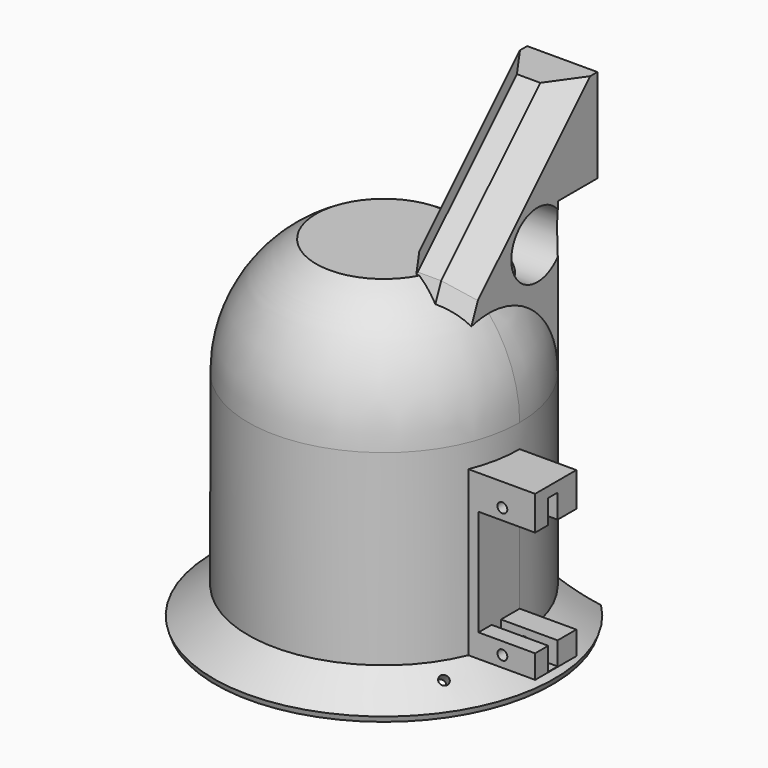
from build123d import *

# Parameters (mm, degrees)
CYLINDER343_R               = 26
CYLINDER343_DEPTH           = 40
CYLINDER338_R               = 1.5
CYLINDER338_DEPTH           = 20
CYLINDER338_PLACEMENT_ANGLE = 45
CYLINDER339_R               = 1
CYLINDER339_DEPTH           = 20
CYLINDER339_PLACEMENT_ANGLE = 45
FUSION303_PLACEMENT_ANGLE   = 45
FUSION350_PLACEMENT_ANGLE   = 12
CYLINDER342_R               = 29
CYLINDER342_DEPTH           = 40
CHAMFER043_SIZE             = 2
CYLINDER344_W               = 29
CYLINDER344_H               = 40
CYLINDER344_ANGLE           = 90
CYLINDER345_W               = 35
CYLINDER345_H               = 40
CYLINDER345_ANGLE           = 90
CYLINDER341_R               = 1.05
CYLINDER341_DEPTH           = 50
CYLINDER337_R               = 1.05
CYLINDER337_DEPTH           = 50
FUSION348_PLACEMENT_ANGLE   = 90
BOX450_W                    = 12.1
BOX450_H                    = 14
BOX450_DEPTH                = 35
BOX448_W                    = 12.1
BOX448_H                    = 2.5
BOX448_DEPTH                = 32.7
BOX449_W                    = 12.1
BOX449_H                    = 26.7
BOX449_DEPTH                = 22.7
CYLINDER340_R               = 2.4
CYLINDER340_DEPTH           = 3
BOX447_W                    = 45.1
BOX447_H                    = 25
BOX447_DEPTH                = 35
CYLINDER347_R               = 26
CYLINDER347_DEPTH           = 40
CYLINDER348_W               = 29
CYLINDER348_H               = 79
CYLINDER348_ANGLE           = 90
CYLINDER349_W               = 50
CYLINDER349_H               = 79
CYLINDER349_ANGLE           = 90
CYLINDER346_R               = 7
CYLINDER346_DEPTH           = 50
BOX451_W                    = 15
BOX451_H                    = 39
BOX451_DEPTH                = 67
CHAMFER040_SIZE             = 30
CHAMFER041_SIZE             = 5


with BuildPart() as sphere008:
    # Sphere008 → Sphere008 (revolve)
    with BuildSketch(Plane(origin=(-34, -145, 13), x_dir=(1, 0, 0), z_dir=(0, -1, 0))):
        with BuildLine():
            ThreePointArc((26, 0), (22.51666, 13), (13, 22.51666))
            Line((13, 22.51666), (0, 22.51666))
            Line((0, 22.51666), (0, 0))
            Line((0, 0), (26, 0))
        make_face()
    revolve(axis=Axis((-34, -145, 13), (0, 0, 1)))


with BuildPart() as fusion349:
    # Cylinder343 → Cylinder343 (new body)
    with BuildSketch(Plane(origin=(-34, -145, -27), x_dir=(1, 0, 0), z_dir=(0, 0, 1))):
        Circle(CYLINDER343_R)
    extrude(amount=CYLINDER343_DEPTH)

    # Fusion349: union Sphere008
    add(sphere008.part)


with BuildPart() as fusion349_1:
    # Fusion349 placement: moved
    add(fusion349.part.moved(Location((0, 0, 12))))


with BuildPart() as cylinder338:
    # Cylinder338 → Cylinder338 (new body)
    with BuildSketch(Plane.XY):
        Circle(CYLINDER338_R)
    extrude(amount=CYLINDER338_DEPTH)


with BuildPart() as cylinder338_1:
    # Cylinder338 placement: moved
    add(cylinder338.part.moved(Location((-57, -145, -26))).rotate(Axis((-57, -145, -26), (0, -1, 0)), CYLINDER338_PLACEMENT_ANGLE))


with BuildPart() as fusion350:
    # Cylinder339 → Cylinder339 (new body)
    with BuildSketch(Plane.XY):
        Circle(CYLINDER339_R)
    extrude(amount=CYLINDER339_DEPTH)


with BuildPart() as fusion350_1:
    # Cylinder339 placement: moved
    add(fusion350.part.moved(Location((-11, -145, -26))).rotate(Axis((-11, -145, -26), (0, 1, 0)), CYLINDER339_PLACEMENT_ANGLE))

    # Fusion303: union Cylinder338
    add(cylinder338_1.part)


with BuildPart() as fusion350_2:
    # Fusion303 placement: moved
    add(fusion350_1.part.moved(Location((92.57, -66.51, 0))).rotate(Axis((92.57, -66.51, 0), (0, 0, -1)), FUSION303_PLACEMENT_ANGLE))


with BuildPart() as fusion350_3:
    # Fusion350 placement: moved
    add(fusion350_2.part.moved(Location((-30.890177, 3.9004, 0))).rotate(Axis((-30.890177, 3.9004, 0), (0, 0, 1)), FUSION350_PLACEMENT_ANGLE))


with BuildPart() as sphere010:
    # Sphere010 → Sphere010 (revolve)
    with BuildSketch(Plane(origin=(-34, -119, -36), x_dir=(1, 0, 0), z_dir=(0, -1, 0))):
        with BuildLine():
            ThreePointArc((0, -30), (30, 0), (0, 30))
            Line((0, 30), (0, -30))
        make_face()
    revolve(axis=Axis((-34, -119, -36), (0, 0, 1)))


with BuildPart() as cylinder342:
    # Cylinder342 → Cylinder342 (new body)
    with BuildSketch(Plane(origin=(-34, -145, -15), x_dir=(1, 0, 0), z_dir=(0, 0, 1))):
        Circle(CYLINDER342_R)
    extrude(amount=CYLINDER342_DEPTH)


with BuildPart() as sphere007:
    # Sphere007 → Sphere007 (revolve)
    with BuildSketch(Plane(origin=(-34, -145, 25), x_dir=(1, 0, 0), z_dir=(0, -1, 0))):
        with BuildLine():
            ThreePointArc((29, 0), (25.114737, 14.5), (14.5, 25.114737))
            Line((14.5, 25.114737), (0, 25.114737))
            Line((0, 25.114737), (0, 0))
            Line((0, 0), (29, 0))
        make_face()
    revolve(axis=Axis((-34, -145, 25), (0, 0, 1)))


with BuildPart() as cone005:
    # Cone005 → Cone005 (revolve)
    with BuildSketch(Plane.XZ):
        Polygon((0, 0), (33, 0), (26, 7), (0, 7), align=None)
    revolve(axis=Axis((0, 0, 0), (0, 0, 1)))


with BuildPart() as cut373:
    # Cone004 → Cone004 (revolve)
    with BuildSketch(Plane.XZ):
        Polygon((0, 0), (38, 0), (29, 7), (0, 7), align=None)
    revolve(axis=Axis((0, 0, 0), (0, 0, 1)))

    # Cut355: cut Cone005
    add(cone005.part, mode=Mode.SUBTRACT)


with BuildPart() as cut373_1:
    # Cut355 placement: moved
    add(cut373.part.moved(Location((-34, -145, -22))))

    # Chamfer043
    chamfer043_edges = [cut373_1.edges().sort_by_distance(p)[0] for p in [
        (-72, -145, -22),
    ]]
    chamfer(chamfer043_edges, length=CHAMFER043_SIZE)

    # Fusion358: union Cylinder342, Sphere007
    add(cylinder342.part)
    add(sphere007.part)

    # Cut372: cut Sphere010
    add(sphere010.part, mode=Mode.SUBTRACT)

    # Cut373: cut Fusion350
    add(fusion350_3.part, mode=Mode.SUBTRACT)


with BuildPart() as cylinder344:
    # Cylinder344 → Cylinder344 (revolve)
    with BuildSketch(Plane.XZ):
        with Locations((14.5, 20)):
            Rectangle(CYLINDER344_W, CYLINDER344_H)
    revolve(axis=Axis((0, 0, 0), (0, 0, 1)), revolution_arc=CYLINDER344_ANGLE)


with BuildPart() as cut329:
    # Cylinder345 → Cylinder345 (revolve)
    with BuildSketch(Plane.XZ):
        with Locations((17.5, 20)):
            Rectangle(CYLINDER345_W, CYLINDER345_H)
    revolve(axis=Axis((0, 0, 0), (0, 0, 1)), revolution_arc=CYLINDER345_ANGLE)

    # Cut329: cut Cylinder344
    add(cylinder344.part, mode=Mode.SUBTRACT)


with BuildPart() as cut329_1:
    # Cut329 placement: moved
    add(cut329.part.moved(Location((-34, -145, -17))))


with BuildPart() as cylinder341:
    # Cylinder341 → Cylinder341 (new body)
    with BuildSketch(Plane(origin=(0, -27.7, 0), x_dir=(1, 0, 0), z_dir=(0, 0, 1))):
        Circle(CYLINDER341_R)
    extrude(amount=CYLINDER341_DEPTH)


with BuildPart() as fusion348:
    # Cylinder337 → Cylinder337 (new body)
    with BuildSketch(Plane.XY):
        Circle(CYLINDER337_R)
    extrude(amount=CYLINDER337_DEPTH)

    # Fusion348: union Cylinder341
    add(cylinder341.part)


with BuildPart() as fusion348_1:
    # Fusion348 placement: moved
    add(fusion348.part.moved(Location((4.1, -111, 13.1))).rotate(Axis((4.1, -111, 13.1), (1, 0, 0)), FUSION348_PLACEMENT_ANGLE))


with BuildPart() as box450:
    # Box450 → Box450 (new body)
    with BuildSketch(Plane(origin=(-1, -135, -17), x_dir=(1, 0, 0), z_dir=(0, 0, 1))):
        with Locations((6.05, 7)):
            Rectangle(BOX450_W, BOX450_H)
    extrude(amount=BOX450_DEPTH)


with BuildPart() as box448:
    # Box448 → Box448 (new body)
    with BuildSketch(Plane(origin=(0, 8.5, -4.9), x_dir=(1, 0, 0), z_dir=(0, 0, 1))):
        with Locations((6.05, 1.25)):
            Rectangle(BOX448_W, BOX448_H)
    extrude(amount=BOX448_DEPTH)


with BuildPart() as box449:
    # Box449 → Box449 (new body)
    with BuildSketch(Plane.XY):
        with Locations((6.05, 13.35)):
            Rectangle(BOX449_W, BOX449_H)
    extrude(amount=BOX449_DEPTH)


with BuildPart() as fusion347:
    # Cylinder340 → Cylinder340 (new body)
    with BuildSketch(Plane(origin=(6.05, 0, 16.4), x_dir=(1, 0, 0), z_dir=(0, -1, 0))):
        Circle(CYLINDER340_R)
    extrude(amount=CYLINDER340_DEPTH)

    # Fusion347: union Box448, Box449
    add(box448.part)
    add(box449.part)


with BuildPart() as fusion347_1:
    # Fusion347 placement: moved
    add(fusion347.part.moved(Location((-1, -151, -12))))


with BuildPart() as cut384:
    # Box447 → Box447 (new body)
    with BuildSketch(Plane(origin=(-34, -146, -17), x_dir=(1, 0, 0), z_dir=(0, 0, 1))):
        with Locations((22.55, 12.5)):
            Rectangle(BOX447_W, BOX447_H)
    extrude(amount=BOX447_DEPTH)

    # Cut380: cut Fusion347
    add(fusion347_1.part, mode=Mode.SUBTRACT)

    # Cut381: cut Box450
    add(box450.part, mode=Mode.SUBTRACT)

    # Cut382: cut Fusion348
    add(fusion348_1.part, mode=Mode.SUBTRACT)


with BuildPart() as cut384_1:
    # Cut382 placement: moved
    add(cut384.part.moved(Location((-4, -10, 2))))

    # Cut383: cut Cut329
    add(cut329_1.part, mode=Mode.SUBTRACT)

    # Fusion359: union Cut373
    add(cut373_1.part)

    # Cut384: cut Fusion349
    add(fusion349_1.part, mode=Mode.SUBTRACT)


with BuildPart() as cut384_2:
    # Cut384 placement: moved
    add(cut384_1.part.moved(Location((0, 0, 5))))


with BuildPart() as sphere009:
    # Sphere009 → Sphere009 (revolve)
    with BuildSketch(Plane(origin=(-34, -145, 13), x_dir=(1, 0, 0), z_dir=(0, -1, 0))):
        with BuildLine():
            ThreePointArc((26, 0), (22.51666, 13), (13, 22.51666))
            Line((13, 22.51666), (0, 22.51666))
            Line((0, 22.51666), (0, 0))
            Line((0, 0), (26, 0))
        make_face()
    revolve(axis=Axis((-34, -145, 13), (0, 0, 1)))


with BuildPart() as fusion302:
    # Cylinder347 → Cylinder347 (new body)
    with BuildSketch(Plane(origin=(-34, -145, -27), x_dir=(1, 0, 0), z_dir=(0, 0, 1))):
        Circle(CYLINDER347_R)
    extrude(amount=CYLINDER347_DEPTH)

    # Fusion302: union Sphere009
    add(sphere009.part)


with BuildPart() as fusion302_1:
    # Fusion302 placement: moved
    add(fusion302.part.moved(Location((0, 0, 17))))


with BuildPart() as cylinder348:
    # Cylinder348 → Cylinder348 (revolve)
    with BuildSketch(Plane.XZ):
        with Locations((14.5, 39.5)):
            Rectangle(CYLINDER348_W, CYLINDER348_H)
    revolve(axis=Axis((0, 0, 0), (0, 0, 1)), revolution_arc=CYLINDER348_ANGLE)


with BuildPart() as cut359:
    # Cylinder349 → Cylinder349 (revolve)
    with BuildSketch(Plane.XZ):
        with Locations((25, 39.5)):
            Rectangle(CYLINDER349_W, CYLINDER349_H)
    revolve(axis=Axis((0, 0, 0), (0, 0, 1)), revolution_arc=CYLINDER349_ANGLE)

    # Cut359: cut Cylinder348
    add(cylinder348.part, mode=Mode.SUBTRACT)


with BuildPart() as cut359_1:
    # Cut359 placement: moved
    add(cut359.part.moved(Location((-34, -145, -17))))


with BuildPart() as cylinder346:
    # Cylinder346 → Cylinder346 (new body)
    with BuildSketch(Plane(origin=(-36, -132, 56), x_dir=(0, 1, 0), z_dir=(1, 0, 0))):
        Circle(CYLINDER346_R)
    extrude(amount=CYLINDER346_DEPTH)


with BuildPart() as fusion360:
    # Box451 → Box451 (new body)
    with BuildSketch(Plane(origin=(-24.3, -155, 15), x_dir=(1, 0, 0), z_dir=(0, 0, 1))):
        with Locations((7.5, 19.5)):
            Rectangle(BOX451_W, BOX451_H)
    extrude(amount=BOX451_DEPTH)

    # Chamfer040
    chamfer040_edges = [fusion360.edges().sort_by_distance(p)[0] for p in [
        (-16.8, -155, 82),
    ]]
    chamfer(chamfer040_edges, length=CHAMFER040_SIZE)

    # Chamfer041
    chamfer041_edges = [fusion360.edges().sort_by_distance(p)[0] for p in [
        (-24.3, -140, 67),
        (-9.3, -155, 33.5),
        (-16.8, -155, 52),
        (-9.3, -140, 67),
    ]]
    chamfer(chamfer041_edges, length=CHAMFER041_SIZE)


with BuildPart() as fusion360_1:
    # Chamfer041 placement: moved
    add(fusion360.part.moved(Location((-2.3, 0, 0))))

    # Cut375: cut Cylinder346
    add(cylinder346.part, mode=Mode.SUBTRACT)

    # Cut376: cut Cut359
    add(cut359_1.part, mode=Mode.SUBTRACT)

    # Cut377: cut Fusion302
    add(fusion302_1.part, mode=Mode.SUBTRACT)

    # Fusion360: union Cut384
    add(cut384_2.part)


with BuildPart() as fusion360_2:
    # Fusion360 placement: moved
    add(fusion360_1.part.moved(Location((0, -5, 0))))


solid = fusion360_2.part
